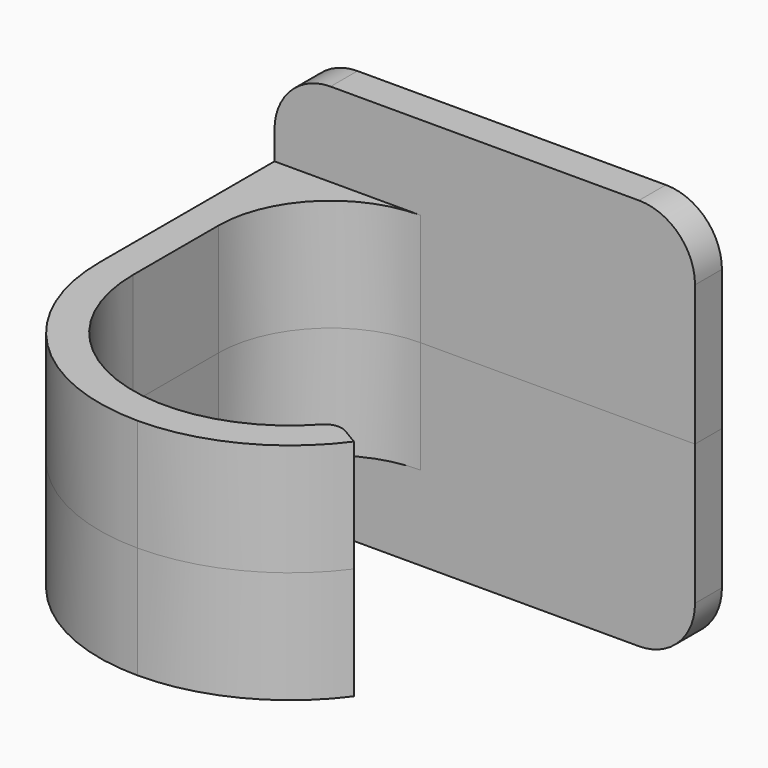
from build123d import *

# Parameters (mm, degrees)
F1_DEPTH = 20
F2_W     = 75
F2_H     = 6
F3_DEPTH = 15
F4_R     = 3
F5_R     = 10


with BuildPart() as f1:
    # F0 (on Top) → F1 (new body)
    with BuildSketch(Plane.XY):
        with BuildLine():
            Line((75, -6), (75, 0))
            Line((75, 0), (0, 0))
            Line((0, 0), (0, -45))
            ThreePointArc((0, -45), (9.958369, -69.041631), (34, -79))
            ThreePointArc((34, -79), (49.381904, -75.32156), (61.43549, -65.082178))
            Line((61.43549, -65.082178), (56.248595, -62))
            ThreePointArc((56.248595, -62), (25.026725, -71.523204), (6, -45))
            Line((6, -45), (6, -26))
            ThreePointArc((6, -26), (11.857864, -11.857864), (26, -6))
            Line((26, -6), (75, -6))
        make_face()
    extrude(amount=F1_DEPTH)

    # F2 (on face) → F3 (join)
    with BuildSketch(Plane.XY.offset(20)):
        with Locations((37.5, -3)):
            Rectangle(F2_W, F2_H)
    extrude(amount=F3_DEPTH)

    # F4
    f4_edges = [f1.edges().sort_by_distance(p)[0] for p in [
        (56.248595, -62, 10),
    ]]
    fillet(f4_edges, radius=F4_R)

    # F5
    f5_edges = [f1.edges().sort_by_distance(p)[0] for p in [
        (0, -3, 35),
        (75, -3, 35),
    ]]
    fillet(f5_edges, radius=F5_R)


with BuildPart() as f6_1:
    # F6: instance of F1
    add(f1.part.mirror(Plane.XY))


solid = Compound([f1.part, f6_1.part])
